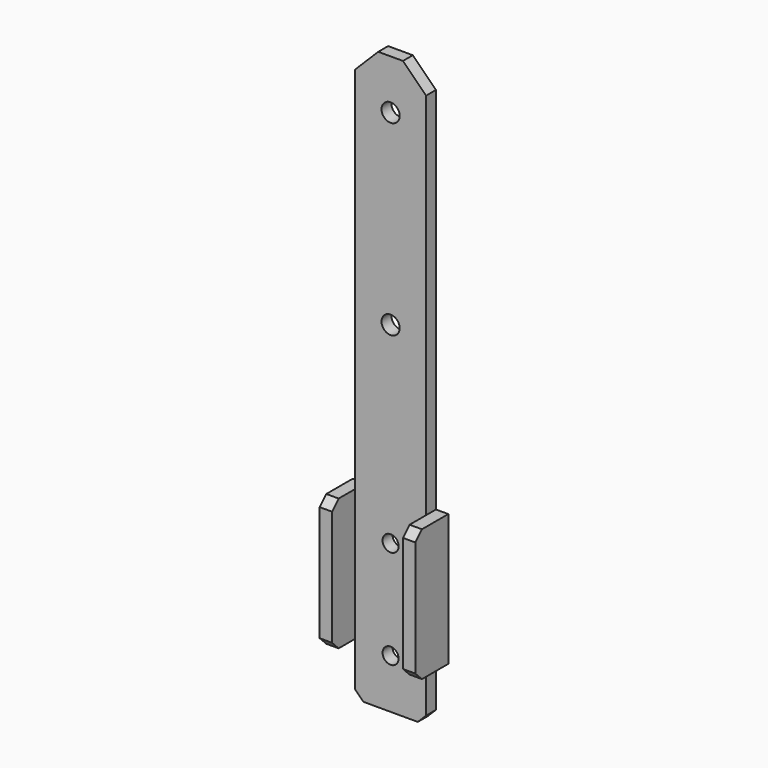
from build123d import *

# Parameters (mm, degrees)
SKETCH006_W     = 8.6
SKETCH006_H     = 70
SKETCH006_R     = 1.1
SKETCH006_R_2   = 0.975
PAD005_DEPTH    = 1.5
SKETCH007_W     = 1.5
SKETCH007_H     = 16
PAD006_DEPTH    = 5
CHAMFER001_SIZE = 2.8
CHAMFER002_SIZE = 1


with BuildPart() as part:
    # Sketch006 (on Face74 of Binder003) → Pad005 (new body)
    with BuildSketch(Plane(origin=(-7.1e-05, -19.1, 0.000123), x_dir=(1, -4e-06, 0), z_dir=(-4e-06, -1, 6e-06))):
        with Locations((12.106057, -34.481964)):
            Rectangle(SKETCH006_W, SKETCH006_H)
        with Locations((12.106057, -5.481964)):
            Circle(SKETCH006_R, mode=Mode.SUBTRACT)
        with Locations((12.106057, -28.152043)):
            Circle(SKETCH006_R, mode=Mode.SUBTRACT)
        with Locations((12.106057, -51.481964)):
            Circle(SKETCH006_R_2, mode=Mode.SUBTRACT)
        with Locations((12.106057, -63.481964)):
            Circle(SKETCH006_R_2, mode=Mode.SUBTRACT)
    extrude(amount=PAD005_DEPTH)

    # Sketch007 (on Face9 of Pad005) → Pad006 (join)
    with BuildSketch(Plane(origin=(-7.1e-05, -19.1, 0.000123), x_dir=(-1, 4e-06, 0), z_dir=(4e-06, 1, -6e-06))):
        with Locations((-17.156057, -55.081964)):
            Rectangle(SKETCH007_W, SKETCH007_H)
        with Locations((-7.056057, -55.081964)):
            Rectangle(SKETCH007_W, SKETCH007_H)
    extrude(amount=-PAD006_DEPTH)

    # Chamfer001
    chamfer001_edges = [part.edges().sort_by_distance(p)[0] for p in [
        (16.405983, -19.850058, 0.518165),
        (7.805983, -19.850026, 0.518165),
    ]]
    chamfer(chamfer001_edges, length=CHAMFER001_SIZE)

    # Chamfer002
    chamfer002_edges = [part.edges().sort_by_distance(p)[0] for p in [
        (17.155967, -24.100368, -47.081808),
        (17.155967, -24.100471, -63.081808),
        (7.055967, -24.100433, -63.081808),
        (7.055967, -24.10033, -47.081808),
        (16.405983, -19.850509, -69.481835),
        (7.805983, -19.850477, -69.481835),
    ]]
    chamfer(chamfer002_edges, length=CHAMFER002_SIZE)


solid = part.part
